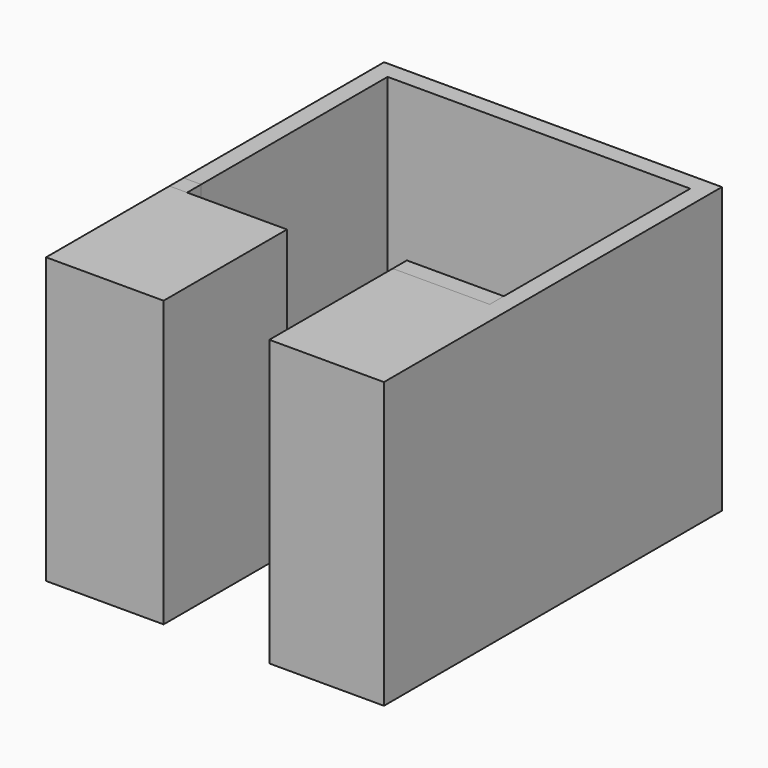
from build123d import *

# Parameters (mm, degrees)
F1_DEPTH  = 2463.8
F2_W      = 1117.6
F2_H      = 2032
F3_DEPTH  = 762
F4_W      = 1219.2
F4_H      = 2032
F5_DEPTH  = 762
F6_W      = 762
F6_H      = 558.8
F6_W_2    = 863.6
F6_H_2    = 2166.62
F6_W_3    = 508
F6_H_3    = 254
F7_DEPTH  = 914.4
F9_DEPTH  = 609.6
F11_DEPTH = 508
F12_W     = 838.2
F12_H     = 152.4
F12_W_2   = 152.4
F13_DEPTH = 2463.8


with BuildPart() as f1:
    # F0 (on Top) → F1 (new body)
    with BuildSketch(Plane.XY):
        Polygon((-334.8183358609, 0), (-1198.4183358609, 0), (-1198.4183358609, 2166.62), (1417.7816641391, 2166.62), (1417.7816641391, 0), (579.5816641391, 0), (579.5816641391, -1333.5), (1570.1816641391, -1333.5), (1570.1816641391, 0), (1570.1816641391, 2319.02), (-1350.8183358609, 2319.02), (-1350.8183358609, 0), (-1350.8183358609, -1333.5), (-334.8183358609, -1333.5), align=None)
    extrude(amount=F1_DEPTH)

    # F2 (on face) → F3 (cut)
    with BuildSketch(Plane(origin=(-1350.8183358609, 0, 0), x_dir=(0, -1, 0), z_dir=(-1, 0, 0))):
        with Locations((622.3, 1016)):
            Rectangle(F2_W, F2_H)
    extrude(amount=-F3_DEPTH, mode=Mode.SUBTRACT)

    # F4 (on face) → F5 (cut)
    with BuildSketch(Plane(origin=(579.5816641391, 0, 0), x_dir=(0, -1, 0), z_dir=(-1, 0, 0))):
        with Locations((673.1, 1016)):
            Rectangle(F4_W, F4_H)
    extrude(amount=-F5_DEPTH, mode=Mode.SUBTRACT)

    # F6 (on face) → F7 (join)
    with BuildSketch(Plane(origin=(0, 0, 0), x_dir=(1, 0, 0), z_dir=(0, 0, -1))):
        with Locations((1036.7816641391, -1887.22)):
            Rectangle(F6_W, F6_H)
        with Locations((-766.6183358609, -1083.31)):
            Rectangle(F6_W_2, F6_H_2)
        with Locations((88.6141725779, -2039.62)):
            Rectangle(F6_W_3, F6_H_3)
    extrude(amount=-F7_DEPTH)

    # F8 (on face) → F9 (join)
    with BuildSketch(Plane(origin=(0, 0, 0), x_dir=(1, 0, 0), z_dir=(0, 0, -1))):
        with BuildLine():
            add(Edge.make_bspline(
                [(109.6816062927, -1293.6762565613), (-286.2652083175, -1293.6762565613), (-88.2918010124, -1827.0762565613), (109.6816062927, -2360.4762565613), (307.6550135978, -1827.0762565613), (505.628420903, -1293.6762565613), (109.6816062927, -1293.6762565613)],
                knots=[0, 0, 0, 2.0943951024, 2.0943951024, 4.1887902048, 4.1887902048, 6.2831853072, 6.2831853072, 6.2831853072], degree=2, weights=[1, 0.5, 1, 0.5, 1, 0.5, 1]))
        make_face()
    extrude(amount=-F9_DEPTH)

    # F10 (on face) → F11 (cut)
    with BuildSketch(Plane.XY.offset(914.4)):
        with BuildLine():
            Line((-601.5183358609, 2085.1567547083), (-935.4930091858, 2085.1567547083))
            ThreePointArc((-935.4930091858, 2085.1567547083), (-1043.2560826386, 2040.5198281611), (-1087.8930091858, 1932.7567547083))
            Line((-1087.8930091858, 1932.7567547083), (-1087.8930091858, 408.7567547083))
            ThreePointArc((-1087.8930091858, 408.7567547083), (-1043.2560826386, 300.9936812555), (-935.4930091858, 256.3567547083))
            Line((-935.4930091858, 256.3567547083), (-601.5183358609, 256.3567547083))
            ThreePointArc((-601.5183358609, 256.3567547083), (-493.755262408, 300.9936812555), (-449.1183358609, 408.7567547083))
            Line((-449.1183358609, 408.7567547083), (-449.1183358609, 1932.7567547083))
            ThreePointArc((-449.1183358609, 1932.7567547083), (-493.755262408, 2040.5198281611), (-601.5183358609, 2085.1567547083))
        make_face()
        with BuildLine():
            add(Edge.make_bspline(
                [(1320.9720514297, 1882.7065229416), (1320.9720514297, 2234.6592470396), (863.7720514297, 2058.6828849906), (406.5720514297, 1882.7065229416), (863.7720514297, 1706.7301608926), (1320.9720514297, 1530.7537988436), (1320.9720514297, 1882.7065229416)],
                knots=[0, 0, 0, 2.0943951024, 2.0943951024, 4.1887902048, 4.1887902048, 6.2831853072, 6.2831853072, 6.2831853072], degree=2, weights=[1, 0.5, 1, 0.5, 1, 0.5, 1]))
        make_face()
    extrude(amount=-F11_DEPTH, mode=Mode.SUBTRACT)

    # F12 (on face) → F13 (join, through all)
    with BuildSketch(Plane(origin=(0, 0, 0), x_dir=(1, 0, 0), z_dir=(0, 0, -1))):
        with Locations((998.6816641391, -76.2)):
            Rectangle(F12_W, F12_H)
        with Locations((-1274.6183358609, -76.2)):
            Rectangle(F12_W_2, F12_H)
    extrude(amount=-F13_DEPTH)


solid = f1.part
